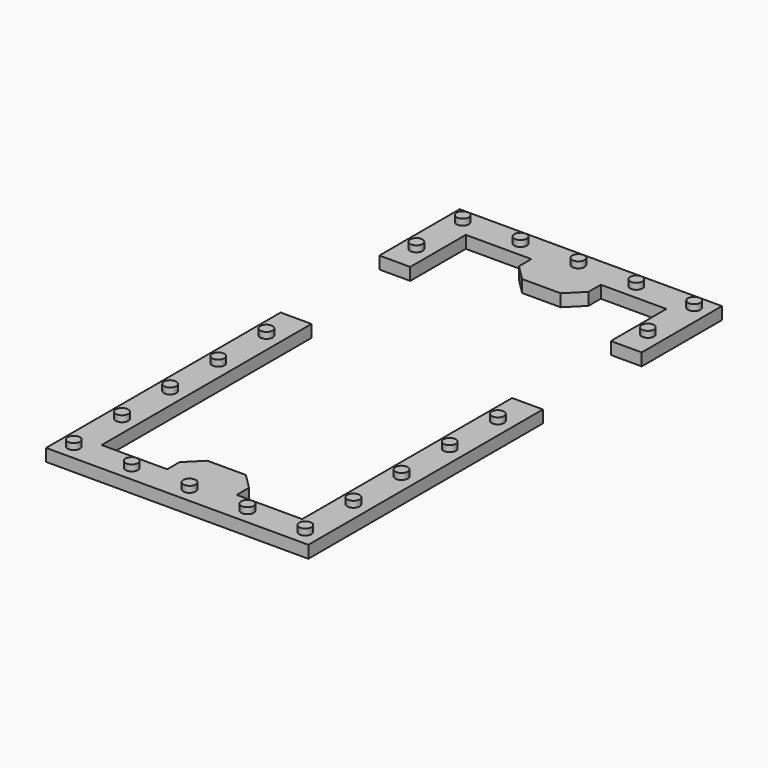
from build123d import *

# Parameters (mm, degrees)
F2_DEPTH  = 1.2
F3_R      = 0.6
F4_DEPTH  = 0.6
F5_SIZE   = 1.5
F5_2_SIZE = 1.5


with BuildPart() as f2:
    # F1 (on Top) → F2 (new body)
    with BuildSketch(Plane.XY):
        Polygon((12.75, 15.75), (-12.75, 15.75), (-12.75, 6), (-9.75, 6), (-9.75, 12.75), (-3.375, 12.75), (-3.375, 9.75), (3.375, 9.75), (3.375, 12.75), (9.75, 12.75), (9.75, 6), (12.75, 6), align=None)
    extrude(amount=F2_DEPTH)

    # F3 (on face) → F4 (join)
    with BuildSketch(Plane.XY.offset(1.2)):
        with Locations((-11.25, 14.25)):
            Circle(F3_R)
        with Locations((-5.625, 14.25)):
            Circle(F3_R)
        with Locations((0, 14.25)):
            Circle(F3_R)
        with Locations((5.625, 14.25)):
            Circle(F3_R)
        with Locations((11.25, 14.25)):
            Circle(F3_R)
        with Locations((-11.25, 8.625)):
            Circle(F3_R)
        with Locations((11.25, 8.625)):
            Circle(F3_R)
    extrude(amount=F4_DEPTH)

    # F5
    f5_edges = [f2.edges().sort_by_distance(p)[0] for p in [
        (-3.375, 9.75, 0.6),
        (3.375, 9.75, 0.6),
    ]]
    chamfer(f5_edges, length=F5_SIZE)


with BuildPart() as f2b:
    # F1 (on Top) → F2, piece 2 (new body)
    with BuildSketch(Plane.XY):
        Polygon((-12.75, -6), (-12.75, -34.5), (12.75, -34.5), (12.75, -6), (9.75, -6), (9.75, -31.5), (3.375, -31.5), (3.375, -28.5), (-3.375, -28.5), (-3.375, -31.5), (-9.75, -31.5), (-9.75, -6), align=None)
    extrude(amount=F2_DEPTH)

    # F3 (on face) → F4, piece 2 (join)
    with BuildSketch(Plane.XY.offset(1.2)):
        with Locations((0, -33)):
            Circle(F3_R)
        with Locations((5.625, -33)):
            Circle(F3_R)
        with Locations((11.25, -33)):
            Circle(F3_R)
        with Locations((-5.625, -33)):
            Circle(F3_R)
        with Locations((-11.25, -33)):
            Circle(F3_R)
        with Locations((-11.25, -27.15)):
            Circle(F3_R)
        with Locations((-11.25, -21.3)):
            Circle(F3_R)
        with Locations((-11.25, -15.45)):
            Circle(F3_R)
        with Locations((-11.25, -9.6)):
            Circle(F3_R)
        with Locations((11.25, -27.15)):
            Circle(F3_R)
        with Locations((11.25, -21.3)):
            Circle(F3_R)
        with Locations((11.25, -15.45)):
            Circle(F3_R)
        with Locations((11.25, -9.6)):
            Circle(F3_R)
    extrude(amount=F4_DEPTH)

    # F5#2
    f5_2_edges = [f2b.edges().sort_by_distance(p)[0] for p in [
        (3.375, -28.5, 0.6),
        (-3.375, -28.5, 0.6),
    ]]
    chamfer(f5_2_edges, length=F5_2_SIZE)


solid = Compound([f2.part, f2b.part])
